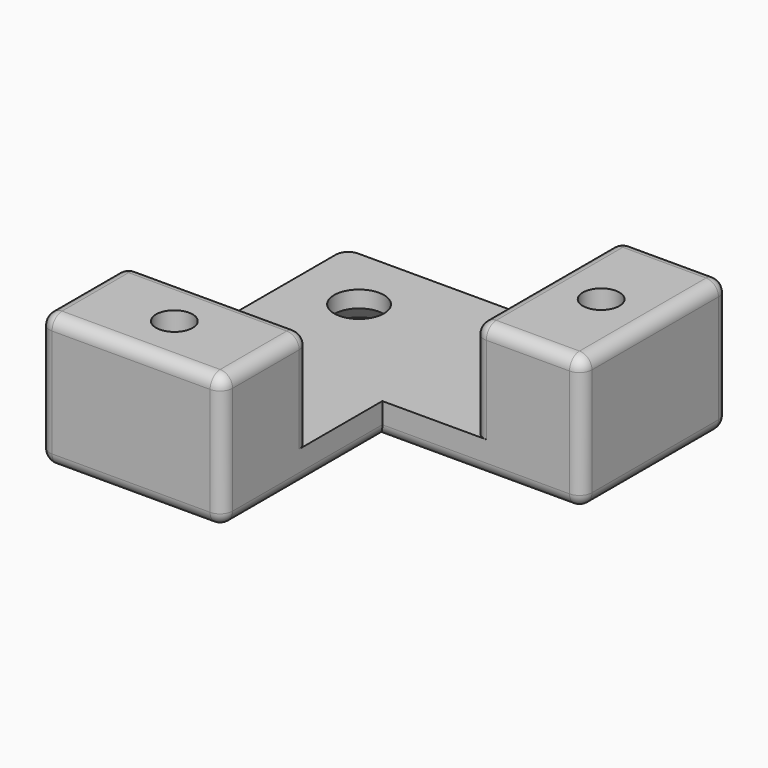
from build123d import *

# Parameters (mm, degrees)
RECTANGLE003_W       = 22
RECTANGLE003_H       = 13
PAD_DEPTH            = 12
RECTANGLE002_FACE1_W = 22
RECTANGLE002_FACE1_H = 24
PAD002_DEPTH         = 4
RECTANGLE_FACE1_W    = 46
RECTANGLE_FACE1_H    = 22
PAD003_DEPTH         = 4
RECTANGLE001_W       = 13
RECTANGLE001_H       = 22
PAD004_DEPTH         = 12
CIRCLE002_R          = 2.2
POCKET_DEPTH         = 22
CIRCLE_EDGE1_R       = 3
POCKET001_DEPTH      = 5
CIRCLE001_R          = 2.2
POCKET002_DEPTH      = 22
POCKET003_DEPTH      = 22
POCKET004_DEPTH      = 22
CHAMFER_SIZE         = 2
CHAMFER001_SIZE      = 1.7
CHAMFER002_SIZE      = 1.7
FILLET_R             = 1.5


with BuildPart() as part:
    # Rectangle003 → Pad (new body)
    with BuildSketch(Plane(origin=(0, -24, 0), x_dir=(1, 0, 0), z_dir=(0, 0, 1))):
        with Locations((11, 6.5)):
            Rectangle(RECTANGLE003_W, RECTANGLE003_H)
    extrude(amount=PAD_DEPTH)

    # Rectangle002 Face1 → Pad002 (add)
    with BuildSketch(Plane(origin=(0, -24, 0), x_dir=(1, 0, 0), z_dir=(0, 0, 1))):
        with Locations((11, 12)):
            Rectangle(RECTANGLE002_FACE1_W, RECTANGLE002_FACE1_H)
    extrude(amount=-PAD002_DEPTH)

    # Rectangle Face1 → Pad003 (add)
    with BuildSketch(Plane.XY):
        with Locations((23, 11)):
            Rectangle(RECTANGLE_FACE1_W, RECTANGLE_FACE1_H)
    extrude(amount=-PAD003_DEPTH)

    # Rectangle001 → Pad004 (join)
    with BuildSketch(Plane(origin=(33, 0, 0), x_dir=(1, 0, 0), z_dir=(0, 0, 1))):
        with Locations((6.5, 11)):
            Rectangle(RECTANGLE001_W, RECTANGLE001_H)
    extrude(amount=PAD004_DEPTH)

    # Circle002 → Pocket (cut)
    with BuildSketch(Plane(origin=(11, -17.5, 0), x_dir=(1, 0, 0), z_dir=(0, 0, 1))):
        Circle(CIRCLE002_R)
    extrude(amount=-POCKET_DEPTH, mode=Mode.SUBTRACT)

    # Circle Edge1 → Pocket001 (cut)
    with BuildSketch(Plane(origin=(8, 14, 0), x_dir=(1, 0, 0), z_dir=(0, 0, 1))):
        Circle(CIRCLE_EDGE1_R)
    extrude(amount=-POCKET001_DEPTH, mode=Mode.SUBTRACT)

    # Circle001 → Pocket002 (cut)
    with BuildSketch(Plane(origin=(39.5, 11, 0), x_dir=(1, 0, 0), z_dir=(0, 0, 1))):
        Circle(CIRCLE001_R)
    extrude(amount=-POCKET002_DEPTH, mode=Mode.SUBTRACT)

    # Circle001 → Pocket003 (cut)
    with BuildSketch(Plane(origin=(39.5, 11, 0), x_dir=(1, 0, 0), z_dir=(0, 0, 1))):
        Circle(CIRCLE001_R)
    extrude(amount=POCKET003_DEPTH, mode=Mode.SUBTRACT)

    # Circle002 → Pocket004 (cut)
    with BuildSketch(Plane(origin=(11, -17.5, 0), x_dir=(1, 0, 0), z_dir=(0, 0, 1))):
        Circle(CIRCLE002_R)
    extrude(amount=POCKET004_DEPTH, mode=Mode.SUBTRACT)

    # Chamfer
    chamfer_edges = [part.edges().sort_by_distance(p)[0] for p in [
        (5, 14, -4),
    ]]
    chamfer(chamfer_edges, length=CHAMFER_SIZE)

    # Chamfer001
    chamfer001_edges = [part.edges().sort_by_distance(p)[0] for p in [
        (37.3, 11, -4),
    ]]
    chamfer(chamfer001_edges, length=CHAMFER001_SIZE)

    # Chamfer002
    chamfer002_edges = [part.edges().sort_by_distance(p)[0] for p in [
        (8.8, -17.5, -4),
    ]]
    chamfer(chamfer002_edges, length=CHAMFER002_SIZE)

    # Fillet
    fillet_edges = [part.edges().sort_by_distance(p)[0] for p in [
        (0, -24, 4),
        (0, -17.5, 12),
        (0, -11, 6),
        (0, -1, -4),
        (11, -24, -4),
        (22, -24, 4),
        (11, -24, 12),
        (11, -11, 12),
        (22, -17.5, 12),
        (33, 0, 6),
        (39.5, 0, 12),
        (46, 0, 4),
        (46, 11, 12),
        (33, 11, 12),
        (39.5, 22, 12),
        (33, 22, 6),
        (0, 22, -2),
        (22, -11, 6),
        (46, 22, 4),
        (46, 11, -4),
        (23, 22, -4),
        (34, 0, -4),
        (22, -12, -4),
    ]]
    fillet(fillet_edges, radius=FILLET_R)


solid = part.part
